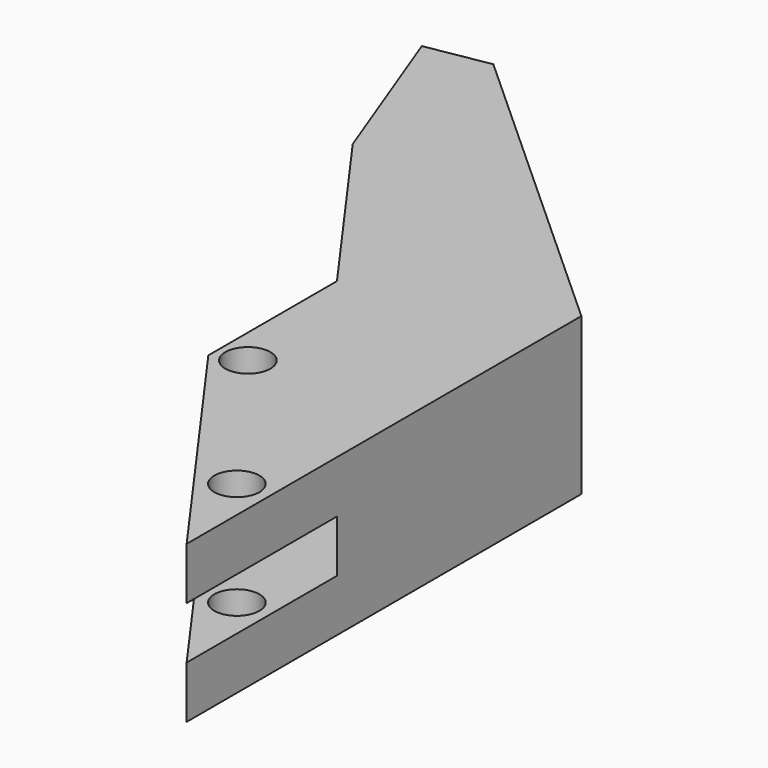
from build123d import *

# Parameters (mm, degrees)
SKETCH001_AS_DRAWN_W                      = 35
SKETCH001_AS_DRAWN_H                      = 4.5
EXTRUDE001_DEPTH                          = 15
EXTRUDE001_ONTO_SKETCH001_ROLL_ANGLE      = 90
EXTRUDE001_ONTO_SKETCH001_PLACEMENT_ANGLE = -92.306069
EXTRUDE001_PLACEMENT_ANGLE                = 15
SKETCH002_R                               = 1.94
EXTRUDE002_DEPTH                          = 15
EXTRUDE_DEPTH                             = 13.5


with BuildPart() as extrude001:
    # Sketch001 as drawn → Extrude001 (new)
    with BuildSketch(Plane.XY):
        with Locations((-28.593868, 6.75)):
            Rectangle(SKETCH001_AS_DRAWN_W, SKETCH001_AS_DRAWN_H)
    extrude(amount=-EXTRUDE001_DEPTH)


with BuildPart() as extrude001_1:
    # Extrude001 onto Sketch001 roll: moved
    add(extrude001.part.rotate(Axis((0, 0, 0), (1, 0, 0)), EXTRUDE001_ONTO_SKETCH001_ROLL_ANGLE))


with BuildPart() as extrude001_2:
    # Extrude001 onto Sketch001 placement: moved
    add(extrude001_1.part.moved(Location((24.697887, -0.99459, 0))).rotate(Axis((24.697887, -0.99459, 0), (0, 0, 1)), EXTRUDE001_ONTO_SKETCH001_PLACEMENT_ANGLE))


with BuildPart() as extrude001_3:
    # Extrude001 placement: moved
    add(extrude001_2.part.moved(Location((17.714834, -0.429705, 0))).rotate(Axis((17.714834, -0.429705, 0), (0, 0, 1)), EXTRUDE001_PLACEMENT_ANGLE))


with BuildPart() as extrude002:
    # Sketch002 → Extrude002 (new body)
    with BuildSketch(Plane.XY.offset(13.5)):
        with Locations((36.775076, 43.105323)):
            Circle(SKETCH002_R)
        with Locations((47.431625, 28.598843)):
            Circle(SKETCH002_R)
    extrude(amount=-EXTRUDE002_DEPTH)


with BuildPart() as cut001:
    # Sketch → Extrude (new body)
    with BuildSketch(Plane.XY):
        Polygon((34.239132, 42.01487), (50.255318, 19.660189), (50.255318, 62.160189), (22.716467, 87.104851), (17.308471, 86.162684), (22.590996, 72.123634), (34.239132, 55.865684), align=None)
    extrude(amount=EXTRUDE_DEPTH)

    # Cut: cut Extrude002
    add(extrude002.part, mode=Mode.SUBTRACT)

    # Cut001: cut Extrude001
    add(extrude001_3.part, mode=Mode.SUBTRACT)


solid = cut001.part
